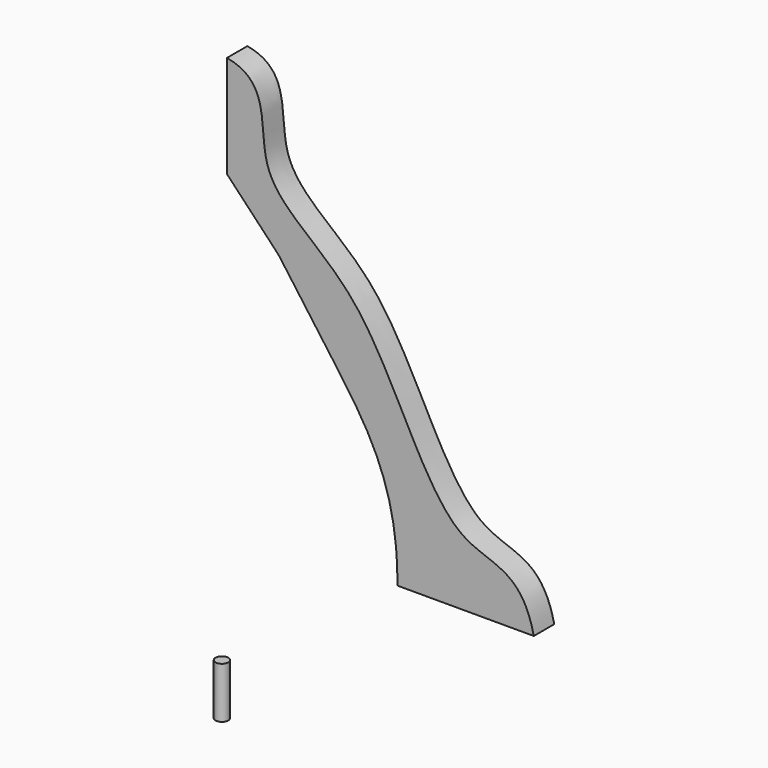
from build123d import *

# Parameters (mm, degrees)
F2_DEPTH = 19.05
F3_R     = 4.7625
F4_DEPTH = 19.05
F5_R     = 4.7625
F6_DEPTH = 19.05
F7_R     = 4.7625
F8_DEPTH = 38.1


with BuildPart() as f2:
    # F1 (on Front) → F2 (new body)
    with BuildSketch(Plane.XZ):
        with BuildLine():
            add(Edge.make_bspline(
                [(-59.029830877, 243.003362101), (-25.6430901, 236.9973734133), (-47.6286333903, 166.8370381779), (50.8732357185, 127.9388190534), (100.4707793595, -37.3836970074), (160.1090798011, -19.1354067202), (169.570169123, -61.796637899)],
                knots=[0, 0, 0, 0, 0.2121606947, 0.4637595102, 0.778045013, 1, 1, 1, 1], degree=3))
            Line((-59.029830877, 243.003362101), (-59.029830877, 166.803362101))
            add(Edge.make_bspline(
                [(-59.029830877, 166.803362101), (-18.5094550252, 123.5082000494), (-29.2048099449, 138.2164911571), (29.1424137517, 57.9771762488), (68.6394424497, 2.8390802152), (67.970169123, -61.796637899)],
                knots=[0, 0, 0, 0, 0.2779833625, 0.5749454845, 1, 1, 1, 1], degree=3))
            Line((67.970169123, -61.796637899), (169.570169123, -61.796637899))
        make_face()
    extrude(amount=F2_DEPTH)

    # F3 (on face) → F4 (cut)
    with BuildSketch(Plane(origin=(-59.029830877, 0, 0), x_dir=(0, -1, 0), z_dir=(-1, 0, 0))):
        with Locations((9.525, 223.953362101)):
            Circle(F3_R)
        with Locations((9.525, 185.853362101)):
            Circle(F3_R)
    extrude(amount=-F4_DEPTH, mode=Mode.SUBTRACT)

    # F5 (on face) → F6 (cut)
    with BuildSketch(Plane(origin=(0, 0, -61.796637899), x_dir=(1, 0, 0), z_dir=(0, 0, -1))):
        with Locations((150.520169123, 9.525)):
            Circle(F5_R)
        with Locations((87.020169123, 9.525)):
            Circle(F5_R)
    extrude(amount=-F6_DEPTH, mode=Mode.SUBTRACT)


with BuildPart() as f8:
    # F7 (on Top) → F8 (new body)
    with BuildSketch(Plane.XY):
        with Locations((166.6935235262, -305.8810830116)):
            Circle(F7_R)
    extrude(amount=F8_DEPTH)


solid = Compound([f2.part, f8.part])
